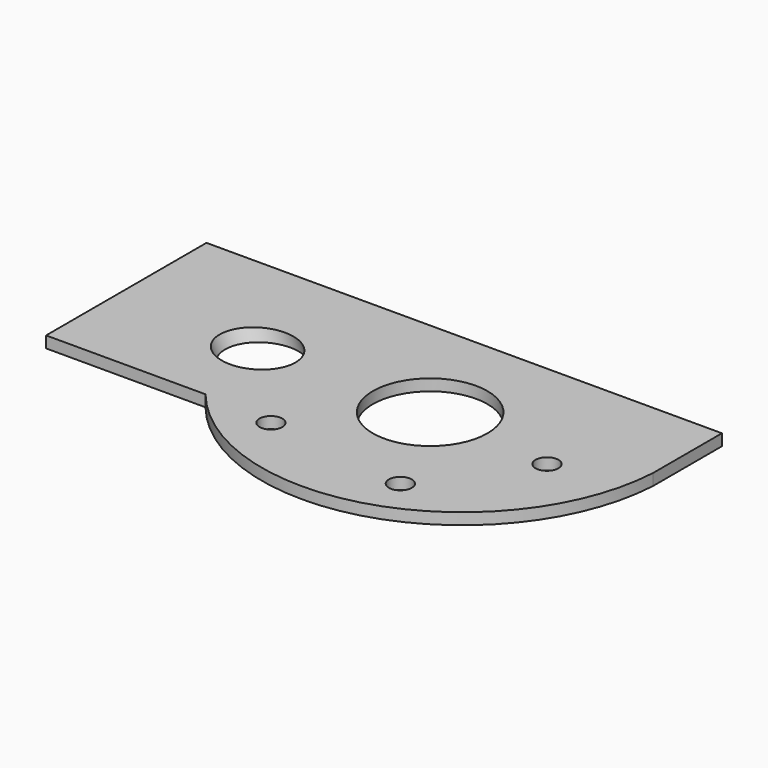
from build123d import *

# Parameters (mm, degrees)
CYLINDER008_R               = 6
CYLINDER008_DEPTH           = 20
CYLINDER008_PLACEMENT_ANGLE = 25
CYLINDER006_R               = 2
CYLINDER006_DEPTH           = 10
CYLINDER005_R               = 2
CYLINDER005_DEPTH           = 10
CYLINDER004_R               = 2
CYLINDER004_DEPTH           = 10
SKETCH_R                    = 10
EXTRUDE_DEPTH               = 2


with BuildPart() as cylinder008:
    # Cylinder008 → Cylinder008 (new body)
    with BuildSketch(Plane.XY):
        Circle(CYLINDER008_R)
    extrude(amount=CYLINDER008_DEPTH)


with BuildPart() as cylinder008_1:
    # Cylinder008 placement: moved
    add(cylinder008.part.moved(Location((-25, -20, -9))).rotate(Axis((-25, -20, -9), (0, -1, 0)), CYLINDER008_PLACEMENT_ANGLE))


with BuildPart() as cylinder006:
    # Cylinder006 → Cylinder006 (new body)
    with BuildSketch(Plane(origin=(-15, -36, -4), x_dir=(1, 0, 0), z_dir=(0, 0, 1))):
        Circle(CYLINDER006_R)
    extrude(amount=CYLINDER006_DEPTH)


with BuildPart() as cylinder005:
    # Cylinder005 → Cylinder005 (new body)
    with BuildSketch(Plane(origin=(10, -39, -4), x_dir=(1, 0, 0), z_dir=(0, 0, 1))):
        Circle(CYLINDER005_R)
    extrude(amount=CYLINDER005_DEPTH)


with BuildPart() as cylinder004:
    # Cylinder004 → Cylinder004 (new body)
    with BuildSketch(Plane(origin=(22, -22, -4), x_dir=(1, 0, 0), z_dir=(0, 0, 1))):
        Circle(CYLINDER004_R)
    extrude(amount=CYLINDER004_DEPTH)


with BuildPart() as cut007:
    # Sketch → Extrude (new body)
    with BuildSketch(Plane.XY):
        with BuildLine():
            Line((-55.05719, -35), (-27.221315, -35))
            ThreePointArc((-27.221315, -35), (10.719392, -46.318083), (34.94281, -15))
            Line((34.94281, 0), (34.94281, -15))
            Line((34.94281, 0), (-55.05719, 0))
            Line((-55.05719, -35), (-55.05719, 0))
        make_face()
        with Locations((0, -20)):
            Circle(SKETCH_R, mode=Mode.SUBTRACT)
    extrude(amount=EXTRUDE_DEPTH)

    # Cut004: cut Cylinder004
    add(cylinder004.part, mode=Mode.SUBTRACT)

    # Cut005: cut Cylinder005
    add(cylinder005.part, mode=Mode.SUBTRACT)

    # Cut006: cut Cylinder006
    add(cylinder006.part, mode=Mode.SUBTRACT)

    # Cut007: cut Cylinder008
    add(cylinder008_1.part, mode=Mode.SUBTRACT)


solid = cut007.part
